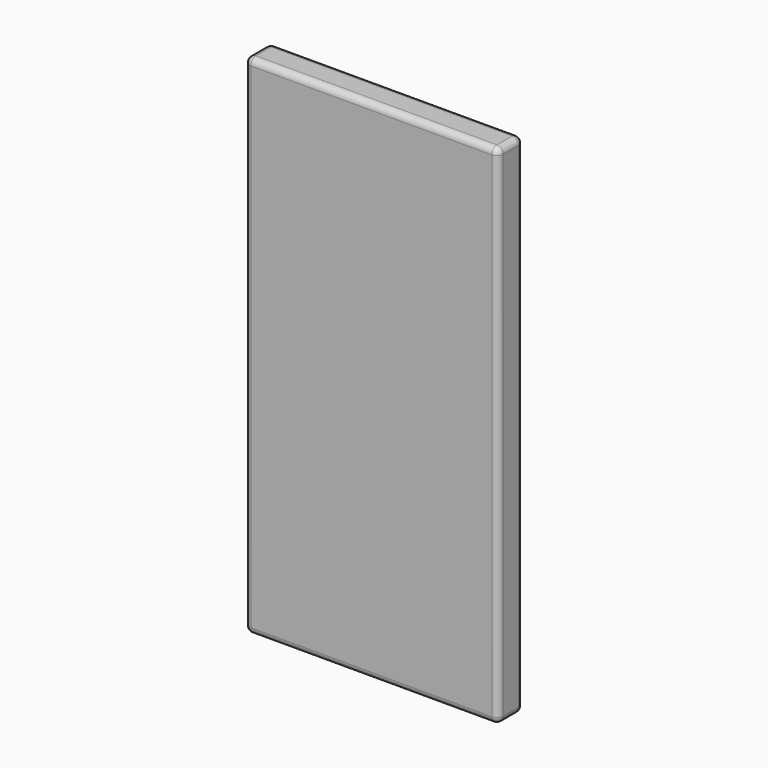
from build123d import *

# Parameters (mm, degrees)
F0_W     = 80
F0_H     = 160
F1_DEPTH = 10
F2_R     = 2
F3_W     = 60
F3_H     = 125
F4_DEPTH = 6


with BuildPart() as f1:
    # F0 (on Front) → F1 (new body)
    with BuildSketch(Plane.XZ):
        with Locations((40, 80)):
            Rectangle(F0_W, F0_H)
    extrude(amount=F1_DEPTH)

    # F2
    f2_edges = [f1.edges().sort_by_distance(p)[0] for p in [
        (80, -10, 80),
        (40, -10, 160),
        (0, -10, 80),
        (40, -10, 0),
        (0, -5, 160),
        (80, -5, 160),
        (80, -5, 0),
        (0, -5, 0),
        (40, 0, 0),
        (80, 0, 80),
        (40, 0, 160),
        (0, 0, 80),
    ]]
    fillet(f2_edges, radius=F2_R)

    # F3 (on Front) → F4 (join)
    with BuildSketch(Plane.XZ):
        with Locations((30, 62.5)):
            Rectangle(F3_W, F3_H)
    extrude(amount=F4_DEPTH)


solid = f1.part
